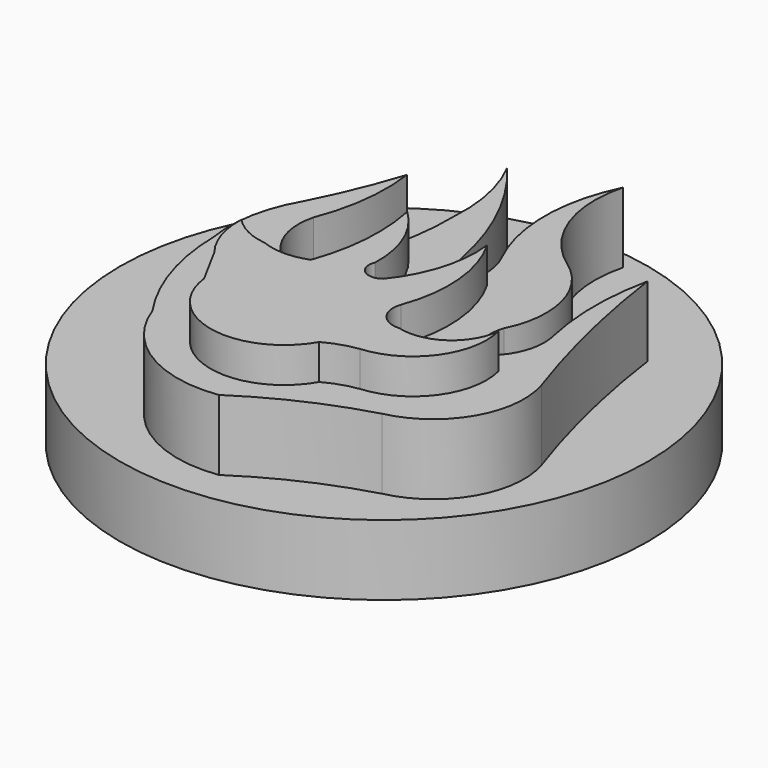
from build123d import *

# Parameters (mm, degrees)
F0_R     = 7.5
F1_DEPTH = 2
F3_DEPTH = 2
F5_DEPTH = 1


with BuildPart() as f1:
    # F0 (on Top) → F1 (new body)
    with BuildSketch(Plane.XY):
        Circle(F0_R)
    extrude(amount=F1_DEPTH)

    # F2 (on face) → F3 (join)
    with BuildSketch(Plane.XY.offset(2)):
        with BuildLine():
            ThreePointArc((-4.359569, -0.5816), (-4.048866, -2.485422), (-3.201723, -4.21846))
            ThreePointArc((-3.201723, -4.21846), (-1.763517, -5.989849), (0.471135, -6.450916))
            ThreePointArc((0.471135, -6.450916), (2.104993, -5.542203), (3.85862, -4.894092))
            ThreePointArc((3.85862, -4.894092), (5.530357, -3.673758), (5.763789, -1.6172))
            ThreePointArc((5.763789, -1.6172), (4.99478, 1.033842), (4.484988, 3.746685))
            ThreePointArc((4.484988, 3.746685), (4.307559, 2.089188), (4.484988, 0.43169))
            ThreePointArc((4.484988, 0.43169), (4.433756, -0.548224), (3.829129, -1.321065))
            ThreePointArc((3.829129, -1.321065), (3.396288, -0.731371), (3.409992, 0))
            ThreePointArc((3.409992, 0), (3.601771, 1.796582), (2.577243, 3.284811))
            ThreePointArc((2.577243, 3.284811), (1.342352, 4.895456), (1.246507, 6.922756))
            ThreePointArc((1.246507, 6.922756), (0.746139, 4.772952), (1.246507, 2.623147))
            ThreePointArc((1.246507, 2.623147), (1.445906, 1.76644), (1.246507, 0.909734))
            ThreePointArc((1.246507, 0.909734), (0.802459, 1.438025), (0.558072, 2.083429))
            ThreePointArc((0.558072, 2.083429), (-0.141358, 4.191438), (-1.347645, 6.056319))
            ThreePointArc((-1.347645, 6.056319), (-0.903638, 4.8169), (-0.814198, 3.503393))
            ThreePointArc((-0.814198, 3.503393), (-1.023492, 1.611686), (-1.718377, -0.160176))
            ThreePointArc((-1.718377, -0.160176), (-2.008384, -0.350929), (-2.2774, -0.570297))
            ThreePointArc((-2.2774, -0.570297), (-3.112946, 0.306997), (-3.216468, 1.514086))
            ThreePointArc((-3.216468, 1.514086), (-2.859593, 2.940059), (-2.873537, 4.409944))
            ThreePointArc((-2.873537, 4.409944), (-3.321426, 3.190102), (-3.864225, 2.00943))
            ThreePointArc((-3.864225, 2.00943), (-4.340752, 0.757667), (-4.359569, -0.5816))
        make_face()
    extrude(amount=F3_DEPTH)

    # F4 (on face) → F5 (join)
    with BuildSketch(Plane.XY.offset(4)):
        with BuildLine():
            ThreePointArc((-2.683389, -2.667802), (-2.380518, -3.229598), (-2.075762, -3.790374))
            ThreePointArc((-2.075762, -3.790374), (-0.413473, -5.59377), (1.818095, -4.576151))
            ThreePointArc((1.818095, -4.576151), (2.259919, -4.381156), (2.73005, -4.270664))
            ThreePointArc((2.73005, -4.270664), (4.260916, -3.418142), (4.605096, -1.700036))
            ThreePointArc((4.605096, -1.700036), (3.983593, -2.740688), (2.789322, -2.947901))
            ThreePointArc((2.789322, -2.947901), (2.209801, -2.674705), (2.119534, -2.040409))
            ThreePointArc((2.119534, -2.040409), (2.35368, -0.297977), (1.824975, 1.378736))
            ThreePointArc((1.824975, 1.378736), (1.702683, -0.046192), (1.038666, -1.312863))
            ThreePointArc((1.038666, -1.312863), (0.529939, -1.321844), (0.403569, -0.82898))
            ThreePointArc((0.403569, -0.82898), (0.176498, 0.455843), (-0.564196, 1.529949))
            ThreePointArc((-0.564196, 1.529949), (-0.457664, -0.055376), (-0.789172, -1.609308))
            ThreePointArc((-0.789172, -1.609308), (-1.448975, -1.733967), (-2.108778, -1.609308))
            ThreePointArc((-2.108778, -1.609308), (-2.701327, -1.433486), (-3.197515, -1.06494))
            ThreePointArc((-3.197515, -1.06494), (-3.086289, -1.913149), (-2.683389, -2.667802))
        make_face()
    extrude(amount=F5_DEPTH)


solid = f1.part
